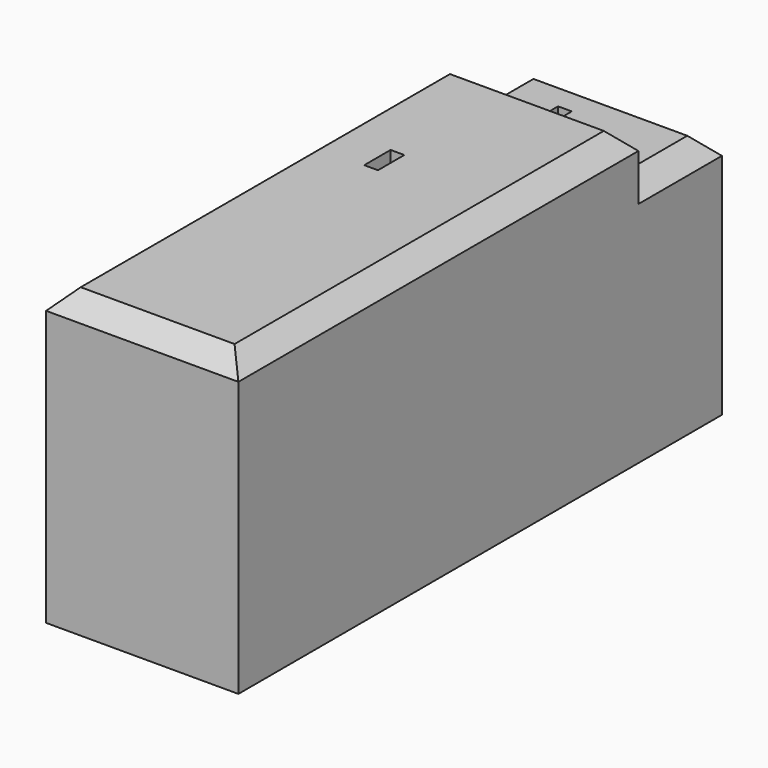
from build123d import *

# Parameters (mm, degrees)
F0_W     = 7
F0_H     = 3.8
F0_W_2   = 0.5
F0_H_2   = 1.2
F1_DEPTH = 9
F0_H_3   = 18.2
F2_DEPTH = 10.7
F3_SIZE  = 0.7
F4_SIZE  = 0.7


with BuildPart() as f1:
    # F0 (on Top) → F1 (new body)
    with BuildSketch(Plane.XY):
        with Locations((-54.597598, 7.007054)):
            Rectangle(F0_W, F0_H)
        with Locations((-55.547598, 6.727054)):
            Rectangle(F0_W_2, F0_H_2, mode=Mode.SUBTRACT)
    extrude(amount=F1_DEPTH)

    # F0 (on Top) → F2 (join)
    with BuildSketch(Plane.XY):
        with Locations((-54.597598, -3.992946)):
            Rectangle(F0_W, F0_H_3)
        with Locations((-55.547598, -0.892946)):
            Rectangle(F0_W_2, F0_H_2, mode=Mode.SUBTRACT)
    extrude(amount=F2_DEPTH)

    # F3
    f3_edges = [f1.edges().sort_by_distance(p)[0] for p in [
        (-54.597598, 8.907054, 9),
    ]]
    chamfer(f3_edges, length=F3_SIZE)

    # F4
    f4_edges = [f1.edges().sort_by_distance(p)[0] for p in [
        (-54.597598, 5.107054, 10.7),
        (-51.097598, -3.992946, 10.7),
        (-58.097598, -3.992946, 10.7),
        (-54.597598, -13.092946, 10.7),
        (-58.097598, 6.657054, 9),
        (-51.097598, 6.657054, 9),
    ]]
    chamfer(f4_edges, length=F4_SIZE)


solid = f1.part
